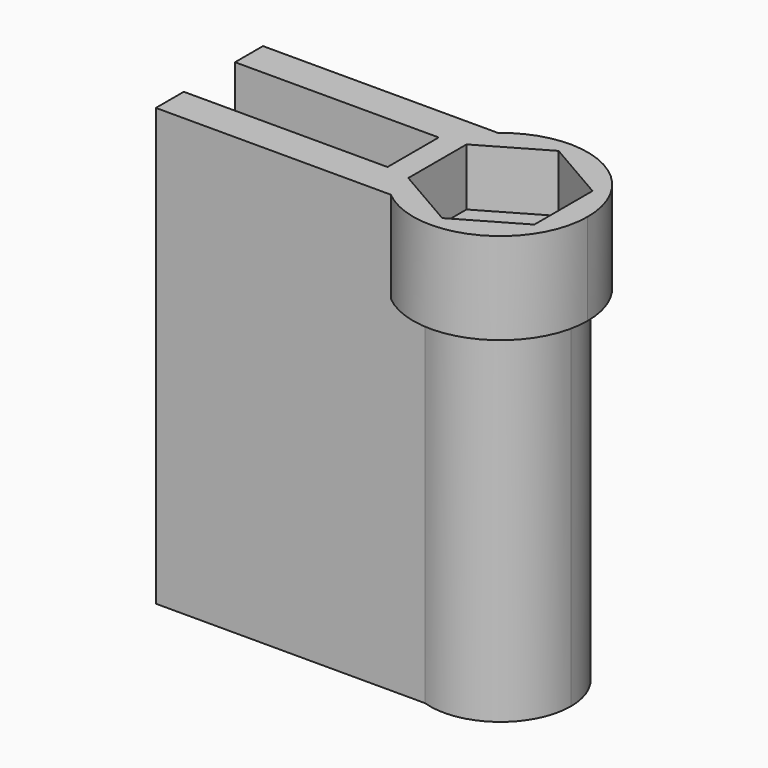
from build123d import *

# Parameters (mm, degrees)
F1_DEPTH = 19.05
F3_DEPTH = 4
F4_R     = 1.55
F5_DEPTH = 2.5


with BuildPart() as f1:
    # F0 (on Top) → F1 (new body)
    with BuildSketch(Plane.XY):
        with BuildLine():
            Line((12.7, 0), (11.7422761358, 0))
            ThreePointArc((11.7422761358, 0), (14.5035288799, 0.4316708576), (15.774, 2.921))
            ThreePointArc((15.774, 2.921), (14.5035288799, 5.4103291424), (11.7422761358, 5.842))
            Line((11.7422761358, 5.842), (12.7, 5.842))
            Line((12.7, 5.842), (12.7, 4.471))
            ThreePointArc((12.7, 4.471), (13.7960155108, 4.0170155108), (14.25, 2.921))
            ThreePointArc((14.25, 2.921), (13.7960155108, 1.8249844892), (12.7, 1.371))
            Line((12.7, 1.371), (12.7, 0))
        make_face()
        with BuildLine():
            Line((0, 1.524), (0, 0))
            Line((0, 0), (11.7422761358, 0))
            ThreePointArc((11.7422761358, 0), (9.626, 2.921), (11.7422761358, 5.842))
            Line((11.7422761358, 5.842), (0, 5.842))
            Line((0, 5.842), (0, 4.318))
            Line((0, 4.318), (8.89, 4.318))
            Line((8.89, 4.318), (8.89, 1.524))
            Line((8.89, 1.524), (0, 1.524))
        make_face()
        with BuildLine():
            Line((0, 1.524), (0, 0))
            Line((0, 0), (11.7422761358, 0))
            ThreePointArc((11.7422761358, 0), (9.626, 2.921), (11.7422761358, 5.842))
            Line((11.7422761358, 5.842), (0, 5.842))
            Line((0, 5.842), (0, 4.318))
            Line((0, 4.318), (8.89, 4.318))
            Line((8.89, 4.318), (8.89, 1.524))
            Line((8.89, 1.524), (0, 1.524))
        make_face()
        with BuildLine():
            Line((0, 1.524), (0, 0))
            Line((0, 0), (11.7422761358, 0))
            ThreePointArc((11.7422761358, 0), (9.626, 2.921), (11.7422761358, 5.842))
            Line((11.7422761358, 5.842), (0, 5.842))
            Line((0, 5.842), (0, 4.318))
            Line((0, 4.318), (8.89, 4.318))
            Line((8.89, 4.318), (8.89, 1.524))
            Line((8.89, 1.524), (0, 1.524))
        make_face()
        with BuildLine():
            ThreePointArc((11.7422761358, 5.842), (9.626, 2.921), (11.7422761358, 0))
            Line((11.7422761358, 0), (12.7, 0))
            Line((12.7, 0), (12.7, 1.371))
            ThreePointArc((12.7, 1.371), (11.15, 2.921), (12.7, 4.471))
            Line((12.7, 4.471), (12.7, 5.842))
            Line((12.7, 5.842), (11.7422761358, 5.842))
        make_face()
    extrude(amount=F1_DEPTH)

    # F2 (on face) → F3 (join)
    with BuildSketch(Plane.XY.offset(19.05)):
        with BuildLine():
            ThreePointArc((10.2538072439, 0), (14.3118476354, -0.5312524821), (16.51, 2.921))
            ThreePointArc((16.51, 2.921), (14.3118476354, 6.3732524821), (10.2538072439, 5.842))
            Line((10.2538072439, 5.842), (11.7422761358, 5.842))
            ThreePointArc((11.7422761358, 5.842), (15.774, 2.921), (11.7422761358, 0))
            Line((11.7422761358, 0), (10.2538072439, 0))
        make_face()
    extrude(amount=-F3_DEPTH)

    # F4 (on face) → F5 (cut)
    with BuildSketch(Plane.XY.offset(19.05)):
        Polygon((15.45, 4.5087132403), (12.7, 6.0964264805), (9.95, 4.5087132403), (9.95, 1.3332867597), (12.7, -0.2544264805), (15.45, 1.3332867597), align=None)
        with Locations((12.7, 2.921)):
            Circle(F4_R, mode=Mode.SUBTRACT)
    extrude(amount=-F5_DEPTH, mode=Mode.SUBTRACT)


solid = f1.part
